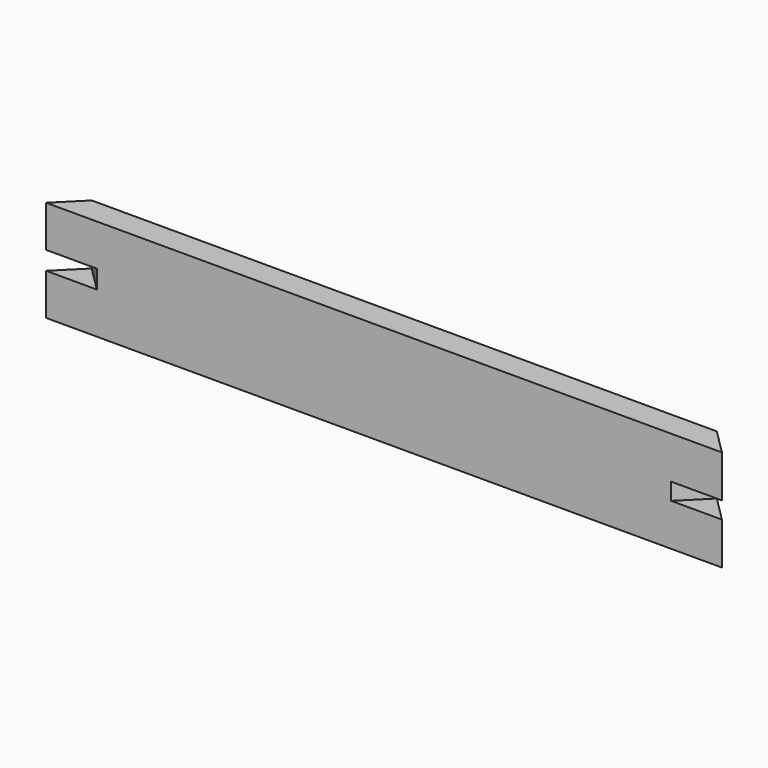
from build123d import *

# Parameters (mm, degrees)
F0_W     = 400
F0_H     = 60
F1_DEPTH = 7.5
F3_DEPTH = 60
F4_W     = 21.213203
F4_H     = 10
F5_DEPTH = 25
F6_W     = 21.213203
F6_H     = 10.904174
F7_DEPTH = 25
F8_W     = 5
F8_H     = 5
F9_DEPTH = 200


with BuildPart() as f1:
    # F0 (on Front) → F1 (new body, symmetric)
    with BuildSketch(Plane.XZ):
        Rectangle(F0_W, F0_H)
    extrude(amount=F1_DEPTH, both=True)

    # F2 (on face) → F3 (cut)
    with BuildSketch(Plane.XY.offset(30)):
        Polygon((-200, 7.5), (-200, -7.5), (-185, 7.5), align=None)
        Polygon((185, 7.5), (200, -7.5), (200, 7.5), align=None)
    extrude(amount=-F3_DEPTH, mode=Mode.SUBTRACT)

    # F4 (on face) → F5 (cut)
    with BuildSketch(Plane(origin=(96.25, 96.25, 0), x_dir=(-0.707107, 0.707107, 0), z_dir=(0.707107, 0.707107, 0))):
        with Locations((-136.118055, 0)):
            Rectangle(F4_W, F4_H)
    extrude(amount=-F5_DEPTH, mode=Mode.SUBTRACT)

    # F6 (on face) → F7 (cut)
    with BuildSketch(Plane(origin=(-96.25, 96.25, 0), x_dir=(-0.707107, -0.707107, 0), z_dir=(-0.707107, 0.707107, 0))):
        with Locations((136.118055, 0)):
            Rectangle(F6_W, F6_H)
    extrude(amount=-F7_DEPTH, mode=Mode.SUBTRACT)

    # F8 (on Right) → F9 (cut, symmetric)
    with BuildSketch(Plane.YZ):
        with Locations((5, -27.5)):
            Rectangle(F8_W, F8_H)
    extrude(amount=F9_DEPTH, both=True, mode=Mode.SUBTRACT)


solid = f1.part
